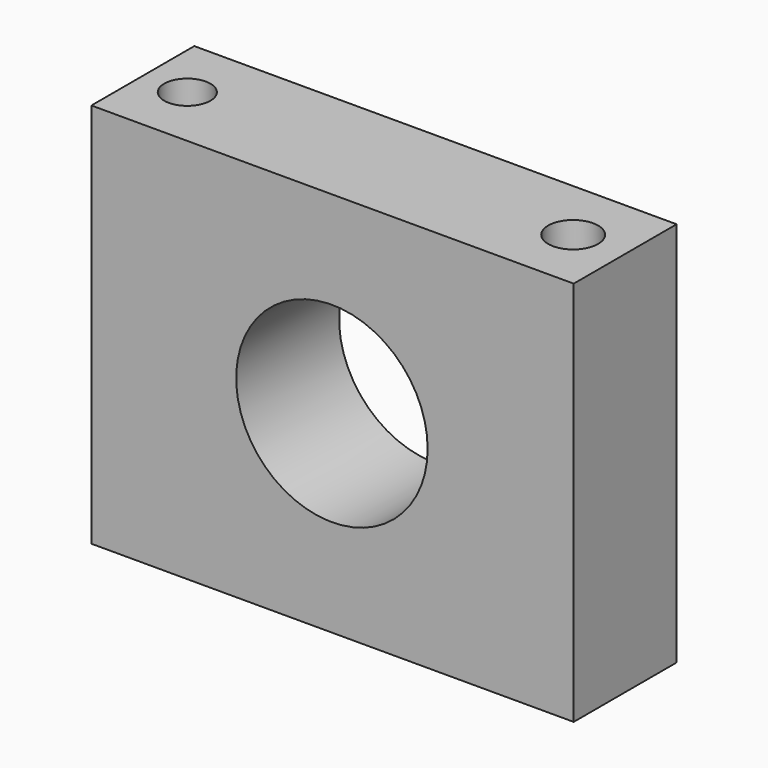
from build123d import *

# Parameters (mm, degrees)
F1_DEPTH = 12.7
F2_R     = 4.566198
F2_R_2   = 4.930932
F3_DEPTH = 12.7


with BuildPart() as f1:
    # F0 (on Front) → F1 (new body, symmetric)
    with BuildSketch(Plane.XZ):
        with BuildLine():
            Line((47.752, 38.1), (47.752, 76.2))
            Line((47.752, 76.2), (-47.498, 76.2))
            Line((-47.498, 76.2), (-47.498, 38.1))
            Line((-47.498, 38.1), (-18.904509, 38.1))
            ThreePointArc((-18.904509, 38.1), (0, 57.004509), (18.904509, 38.1))
            Line((18.904509, 38.1), (47.752, 38.1))
        make_face()
        with BuildLine():
            Line((47.752, 0), (47.752, 38.1))
            Line((47.752, 38.1), (18.904509, 38.1))
            ThreePointArc((18.904509, 38.1), (0, 19.195491), (-18.904509, 38.1))
            Line((-18.904509, 38.1), (-47.498, 38.1))
            Line((-47.498, 38.1), (-47.498, 0))
            Line((-47.498, 0), (47.752, 0))
        make_face()
    extrude(amount=F1_DEPTH, both=True)

    # F2 (on face) → F3 (cut, symmetric)
    with BuildSketch(Plane.XY.offset(76.2)):
        with Locations((-38.714517, 0)):
            Circle(F2_R)
        with Locations((37.485483, 0)):
            Circle(F2_R_2)
    extrude(amount=F3_DEPTH, both=True, mode=Mode.SUBTRACT)


solid = f1.part
